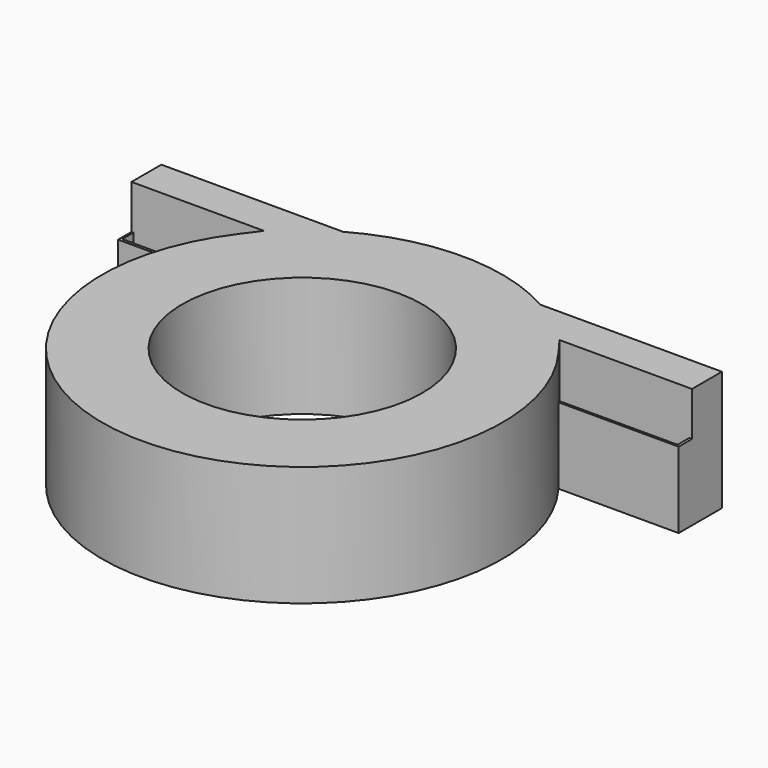
from build123d import *

# Parameters (mm, degrees)
F1_DEPTH = 38.1
F3_DEPTH = 25.4
F5_DEPTH = 11.43


with BuildPart() as f1:
    # F0 (on Top) → F1 (new body)
    with BuildSketch(Plane.XY):
        with BuildLine():
            ThreePointArc((-50.8, 38.1), (-20.0804631421, -60.2413894262), (63.5, 0))
            ThreePointArc((63.5, 0), (60.2413894262, 20.0804631421), (50.8, 38.1))
            Line((50.8, 38.1), (0, 38.1))
            Line((0, 38.1), (-50.8, 38.1))
        make_face()
        with BuildLine():
            ThreePointArc((38.1, 0), (-26.9407683632, -26.9407683632), (0, 38.1))
            ThreePointArc((0, 38.1), (26.9407683632, 26.9407683632), (38.1, 0))
        make_face(mode=Mode.SUBTRACT)
        with BuildLine():
            Line((0, 38.1), (50.8, 38.1))
            ThreePointArc((50.8, 38.1), (41.9294068416, 47.6883092792), (31.2845870641, 55.258706212))
            Line((31.2845870641, 55.258706212), (0, 55.258706212))
            Line((0, 55.258706212), (0, 38.1))
        make_face()
        with BuildLine():
            ThreePointArc((31.2845870641, 55.258706212), (41.9294068416, 47.6883092792), (50.8, 38.1))
            Line((50.8, 38.1), (88.9, 38.1))
            Line((88.9, 38.1), (88.9, 55.258706212))
            Line((88.9, 55.258706212), (31.2845870641, 55.258706212))
        make_face()
        with BuildLine():
            Line((-88.9, 38.1), (-50.8, 38.1))
            ThreePointArc((-50.8, 38.1), (-41.9294068416, 47.6883092792), (-31.2845870641, 55.258706212))
            Line((-31.2845870641, 55.258706212), (-88.9, 55.258706212))
            Line((-88.9, 55.258706212), (-88.9, 38.1))
        make_face()
        with BuildLine():
            ThreePointArc((-31.2845870641, 55.258706212), (-41.9294068416, 47.6883092792), (-50.8, 38.1))
            Line((-50.8, 38.1), (0, 38.1))
            Line((0, 38.1), (0, 55.258706212))
            Line((0, 55.258706212), (-31.2845870641, 55.258706212))
        make_face()
        with BuildLine():
            Line((0, 55.258706212), (31.2845870641, 55.258706212))
            ThreePointArc((31.2845870641, 55.258706212), (0, 63.5), (-31.2845870641, 55.258706212))
            Line((-31.2845870641, 55.258706212), (0, 55.258706212))
        make_face()
    extrude(amount=F1_DEPTH)

    # F2 (on face) → F3 (cut)
    with BuildSketch(Plane.XY.offset(38.1)):
        Polygon((-46.8710027635, 43.4018671513), (-88.9, 43.4018671513), (-88.9, 38.1), (-50.8, 38.1), align=None)
        Polygon((88.9, 38.1), (88.9, 43.4018671513), (46.863, 43.4018671513), (50.8, 38.1), align=None)
    extrude(amount=-F3_DEPTH, mode=Mode.SUBTRACT)

    # F4 (on face) → F5 (join)
    with BuildSketch(Plane.XY.offset(12.7)):
        Polygon((-50.1407290747, 38.9896333218), (-88.2961526513, 38.9896333218), (-88.2961526513, 43.4018671513), (-88.9, 43.4018671513), (-88.9, 38.9896333218), (-88.9, 38.1), (-50.8, 38.1), align=None)
        Polygon((88.9, 38.1), (88.9, 43.4018671513), (88.0254730582, 43.4018671513), (88.0254730582, 38.7667292968), (50.304907768, 38.7667292968), (50.8, 38.1), align=None)
    extrude(amount=F5_DEPTH)


solid = f1.part
